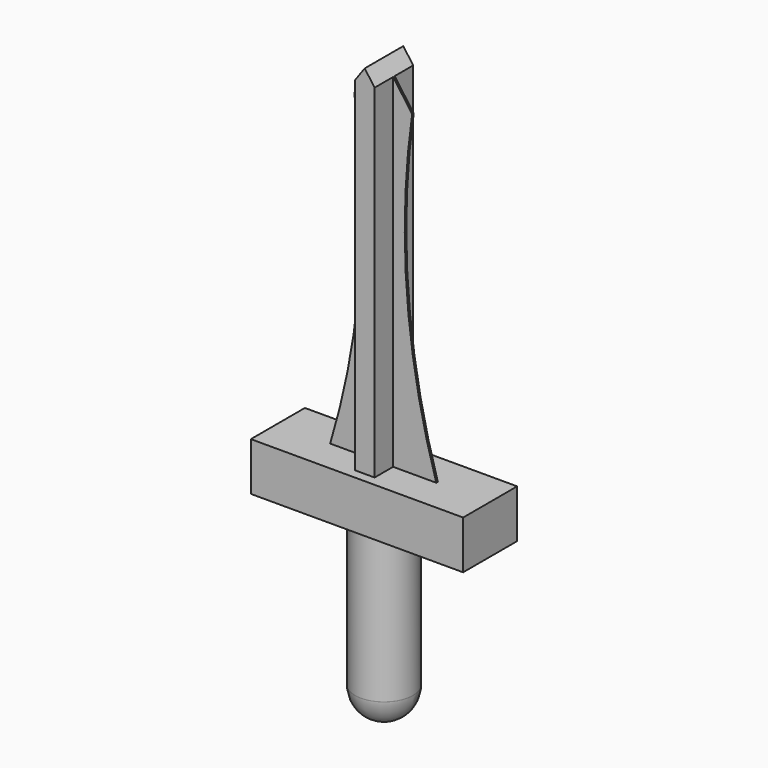
from build123d import *

# Parameters (mm, degrees)
F2_DEPTH = 4.445
F3_DEPTH = 0.127
F4_DEPTH = 3.175


with BuildPart() as f1:
    # F0 (on Front) → F1 (revolve)
    with BuildSketch(Plane.XZ):
        with BuildLine():
            Line((-26.645181, 19.392501), (-30.455181, 19.392501))
            Line((-30.455181, 19.392501), (-30.455181, 3.810044))
            ThreePointArc((-30.455181, 3.810044), (-27.767587, 2.700607), (-26.645181, 0.018404))
            Line((-26.645181, 0.018404), (-26.645181, 19.392501))
        make_face()
        with BuildLine():
            Line((-26.645181, 0.018404), (-30.455181, 0.018404))
            Line((-30.455181, 0.018404), (-30.455181, -3.810044))
            ThreePointArc((-30.455181, -3.810044), (-27.761072, -2.694108), (-26.645136, 0))
            ThreePointArc((-26.645136, 0), (-26.645147, 0.009202), (-26.645181, 0.018404))
        make_face()
        with BuildLine():
            ThreePointArc((-26.645181, 0.018404), (-27.767587, 2.700607), (-30.455181, 3.810044))
            Line((-30.455181, 3.810044), (-30.455181, 0.018404))
            Line((-30.455181, 0.018404), (-26.645181, 0.018404))
        make_face()
    revolve(axis=Axis((-30.455181, 0, 9.705453), (0, 0, -1)))

    # F0 (on Front) → F2 (join, symmetric)
    with BuildSketch(Plane.XZ):
        Polygon((-44.425181, 19.392501), (-34.265181, 19.392501), (-30.455181, 19.392501), (-26.645181, 19.392501), (-16.485181, 19.392501), (-16.485181, 25.742501), (-23.470181, 25.742501), (-29.15215, 25.742501), (-30.455181, 25.742501), (-31.758212, 25.742501), (-37.440181, 25.742501), (-44.425181, 25.742501), align=None)
    extrude(amount=F2_DEPTH, both=True)

    # F0 (on Front) → F3 (join, symmetric)
    with BuildSketch(Plane.XZ):
        with BuildLine():
            Line((-29.15215, 25.742501), (-23.470181, 25.742501))
            ThreePointArc((-23.470181, 25.742501), (-27.34467, 46.412762), (-26.645181, 67.431375))
            Line((-26.645181, 67.431375), (-29.15215, 70.919501))
            Line((-29.15215, 70.919501), (-29.15215, 25.742501))
        make_face()
        with BuildLine():
            ThreePointArc((-34.265181, 67.431375), (-33.565691, 46.412762), (-37.440181, 25.742501))
            Line((-37.440181, 25.742501), (-31.758212, 25.742501))
            Line((-31.758212, 25.742501), (-31.758212, 70.919501))
            Line((-31.758212, 70.919501), (-34.265181, 67.431375))
        make_face()
    extrude(amount=F3_DEPTH, both=True)

    # F0 (on Front) → F4 (join, symmetric)
    with BuildSketch(Plane.XZ):
        Polygon((-30.455181, 72.732501), (-30.455181, 25.742501), (-29.15215, 25.742501), (-29.15215, 70.919501), align=None)
        Polygon((-31.758212, 70.919501), (-31.758212, 25.742501), (-30.455181, 25.742501), (-30.455181, 72.732501), align=None)
    extrude(amount=F4_DEPTH, both=True)


solid = f1.part
